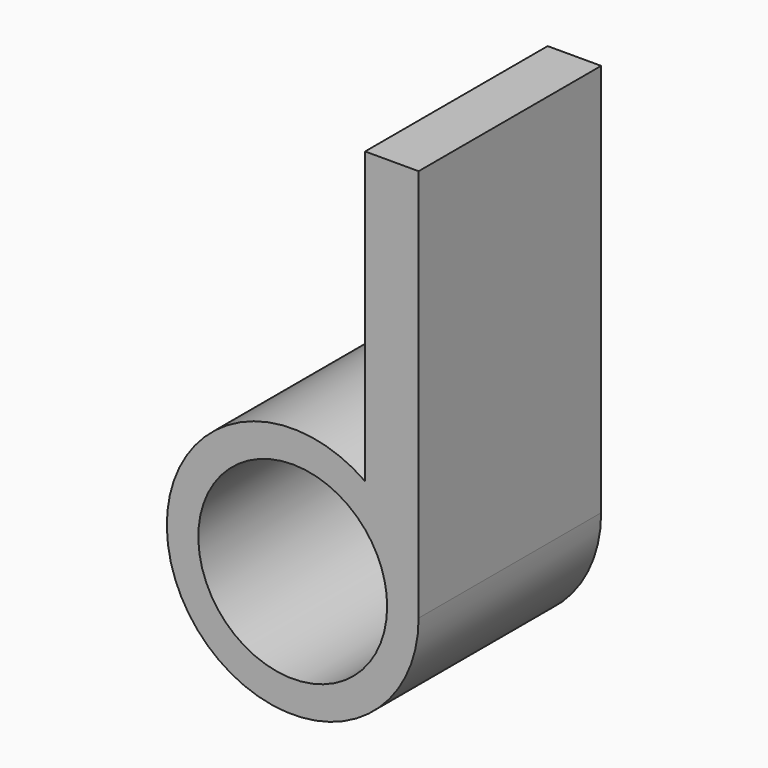
from build123d import *

# Parameters (mm, degrees)
F1_DEPTH = 14.5


with BuildPart() as f1:
    # F0 (on Front) → F1 (new body)
    with BuildSketch(Plane.XZ):
        with BuildLine():
            ThreePointArc((8, 0), (7.099296, 3.687818), (4.6, 6.545227))
            ThreePointArc((4.6, 6.545227), (-7.099296, -3.687818), (8, 0))
        make_face()
        with BuildLine():
            ThreePointArc((4.6, 3.852272), (5.639149, 2.04939), (6, 0))
            ThreePointArc((6, 0), (-5.639149, -2.04939), (4.6, 3.852272))
        make_face(mode=Mode.SUBTRACT)
        with BuildLine():
            Line((4.6, 25), (4.6, 6.545227))
            ThreePointArc((4.6, 6.545227), (7.099296, 3.687818), (8, 0))
            Line((8, 0), (8, 25))
            Line((8, 25), (4.6, 25))
        make_face()
    extrude(amount=F1_DEPTH)


solid = f1.part
